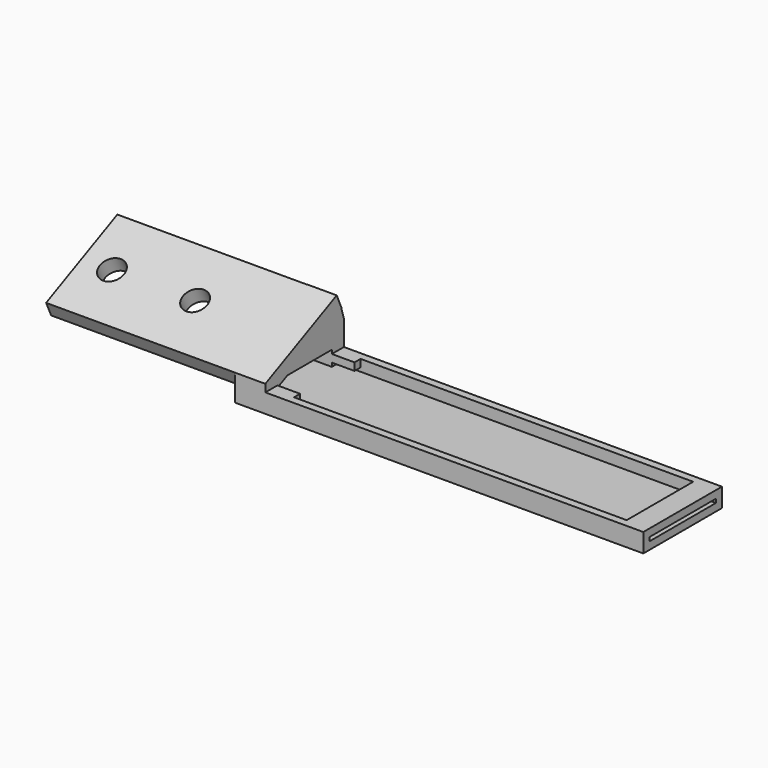
from build123d import *

# Parameters (mm, degrees)
BOX014_W                 = 3
BOX014_H                 = 2
BOX014_DEPTH             = 1
BOX013_W                 = 50
BOX013_H                 = 1
BOX013_DEPTH             = 2.5
BOX012_W                 = 50
BOX012_H                 = 1
BOX012_DEPTH             = 2.5
BOX011_W                 = 3
BOX011_H                 = 13
BOX011_DEPTH             = 1
BOX009_W                 = 4
BOX009_H                 = 9
BOX009_DEPTH             = 2
BOX008_W                 = 10
BOX008_H                 = 10
BOX008_DEPTH             = 10
BOX007_W                 = 10
BOX007_H                 = 10
BOX007_DEPTH             = 10
CYLINDER_W               = 21.3
CYLINDER_H               = 4
CYLINDER_ANGLE           = 25
CYLINDER_ROLL_ANGLE      = -90
CYLINDER_PITCH_ANGLE     = -25
CYLINDER_PLACEMENT_ANGLE = 90
BOX010_W                 = 50
BOX010_H                 = 13
BOX010_DEPTH             = 1
CYLINDER001_R            = 1.6
CYLINDER001_DEPTH        = 10
CYLINDER002_R            = 1.6
CYLINDER002_DEPTH        = 10
BOX006_W                 = 29
BOX006_H                 = 13
BOX006_DEPTH             = 2
CUT004_PLACEMENT_ANGLE   = 25
BOX015_W                 = 3
BOX015_H                 = 2
BOX015_DEPTH             = 1


with BuildPart() as cube014:
    # Box014 → Box014 (new body)
    with BuildSketch(Plane(origin=(-5, -1, 1.5), x_dir=(1, 0, 0), z_dir=(0, 0, 1))):
        with Locations((1.5, 1)):
            Rectangle(BOX014_W, BOX014_H)
    extrude(amount=BOX014_DEPTH)


with BuildPart() as cube013:
    # Box013 → Box013 (new body)
    with BuildSketch(Plane(origin=(-5, 11, 0), x_dir=(1, 0, 0), z_dir=(0, 0, 1))):
        with Locations((25, 0.5)):
            Rectangle(BOX013_W, BOX013_H)
    extrude(amount=BOX013_DEPTH)


with BuildPart() as cube012:
    # Box012 → Box012 (new body)
    with BuildSketch(Plane(origin=(-5, -1, 0), x_dir=(1, 0, 0), z_dir=(0, 0, 1))):
        with Locations((25, 0.5)):
            Rectangle(BOX012_W, BOX012_H)
    extrude(amount=BOX012_DEPTH)


with BuildPart() as cube011:
    # Box011 → Box011 (new body)
    with BuildSketch(Plane(origin=(42, -1, 1.5), x_dir=(1, 0, 0), z_dir=(0, 0, 1))):
        with Locations((1.5, 6.5)):
            Rectangle(BOX011_W, BOX011_H)
    extrude(amount=BOX011_DEPTH)


with BuildPart() as cube009:
    # Box009 → Box009 (new body)
    with BuildSketch(Plane(origin=(-9, 1, 1), x_dir=(1, 0, 0), z_dir=(0, 0, 1))):
        with Locations((2, 4.5)):
            Rectangle(BOX009_W, BOX009_H)
    extrude(amount=BOX009_DEPTH)


with BuildPart() as cube008:
    # Box008 → Box008 (new body)
    with BuildSketch(Plane(origin=(-10.5, 12, -5), x_dir=(1, 0, 0), z_dir=(0, 0, 1))):
        with Locations((5, 5)):
            Rectangle(BOX008_W, BOX008_H)
    extrude(amount=BOX008_DEPTH)


with BuildPart() as cube007:
    # Box007 → Box007 (new body)
    with BuildSketch(Plane(origin=(-10.5, -11, -2), x_dir=(1, 0, 0), z_dir=(0, 0, 1))):
        with Locations((5, 5)):
            Rectangle(BOX007_W, BOX007_H)
    extrude(amount=BOX007_DEPTH)


with BuildPart() as cut007:
    # Cylinder → Cylinder (revolve)
    with BuildSketch(Plane.XZ):
        with Locations((10.65, 2)):
            Rectangle(CYLINDER_W, CYLINDER_H)
    revolve(axis=Axis((0, 0, 0), (0, 0, 1)), revolution_arc=CYLINDER_ANGLE)


with BuildPart() as cut007_1:
    # Cylinder roll: moved
    add(cut007.part.rotate(Axis((0, 0, 0), (1, 0, 0)), CYLINDER_ROLL_ANGLE))


with BuildPart() as cut007_2:
    # Cylinder pitch: moved
    add(cut007_1.part.rotate(Axis((0, 0, 0), (0, 1, 0)), CYLINDER_PITCH_ANGLE))


with BuildPart() as cut007_3:
    # Cylinder placement: moved
    add(cut007_2.part.moved(Location((-5, -8.5, -1))).rotate(Axis((-5, -8.5, -1), (0, 0, 1)), CYLINDER_PLACEMENT_ANGLE))

    # Cut005: cut Cube007
    add(cube007.part, mode=Mode.SUBTRACT)

    # Cut006: cut Cube008
    add(cube008.part, mode=Mode.SUBTRACT)


with BuildPart() as cut007_4:
    # Cut006 placement: moved
    add(cut007_3.part.moved(Location((0, 0, 1))))

    # Cut007: cut Cube009
    add(cube009.part, mode=Mode.SUBTRACT)


with BuildPart() as cube010:
    # Box010 → Box010 (new body)
    with BuildSketch(Plane(origin=(-5, -1, 0), x_dir=(1, 0, 0), z_dir=(0, 0, 1))):
        with Locations((25, 6.5)):
            Rectangle(BOX010_W, BOX010_H)
    extrude(amount=BOX010_DEPTH)


with BuildPart() as cylinder001:
    # Cylinder001 → Cylinder001 (new body)
    with BuildSketch(Plane(origin=(-23, 5.5, 0), x_dir=(1, 0, 0), z_dir=(0, 0, 1))):
        Circle(CYLINDER001_R)
    extrude(amount=CYLINDER001_DEPTH)


with BuildPart() as fusion:
    # Cylinder002 → Cylinder002 (new body)
    with BuildSketch(Plane(origin=(-34, 5.5, 0), x_dir=(1, 0, 0), z_dir=(0, 0, 1))):
        Circle(CYLINDER002_R)
    extrude(amount=CYLINDER002_DEPTH)

    # Fusion: union Cylinder001
    add(cylinder001.part)


with BuildPart() as cut004:
    # Box006 → Box006 (new body)
    with BuildSketch(Plane(origin=(-38, -1, 0), x_dir=(1, 0, 0), z_dir=(0, 0, 1))):
        with Locations((14.5, 6.5)):
            Rectangle(BOX006_W, BOX006_H)
    extrude(amount=BOX006_DEPTH)

    # Cut004: cut Fusion
    add(fusion.part, mode=Mode.SUBTRACT)


with BuildPart() as cut004_1:
    # Cut004 placement: moved
    add(cut004.part.moved(Location((4, 0.75, 2.11))).rotate(Axis((4, 0.75, 2.11), (1, 0, 0)), CUT004_PLACEMENT_ANGLE))


with BuildPart() as fusion001:
    # Box015 → Box015 (new body)
    with BuildSketch(Plane(origin=(-5, 10, 1.5), x_dir=(1, 0, 0), z_dir=(0, 0, 1))):
        with Locations((1.5, 1)):
            Rectangle(BOX015_W, BOX015_H)
    extrude(amount=BOX015_DEPTH)

    # Fusion001: union Cube014, Cube013, Cube012, Cube011, Cut007, Cube010, Cut004
    add(cube014.part)
    add(cube013.part)
    add(cube012.part)
    add(cube011.part)
    add(cut007_4.part)
    add(cube010.part)
    add(cut004_1.part)


solid = fusion001.part
